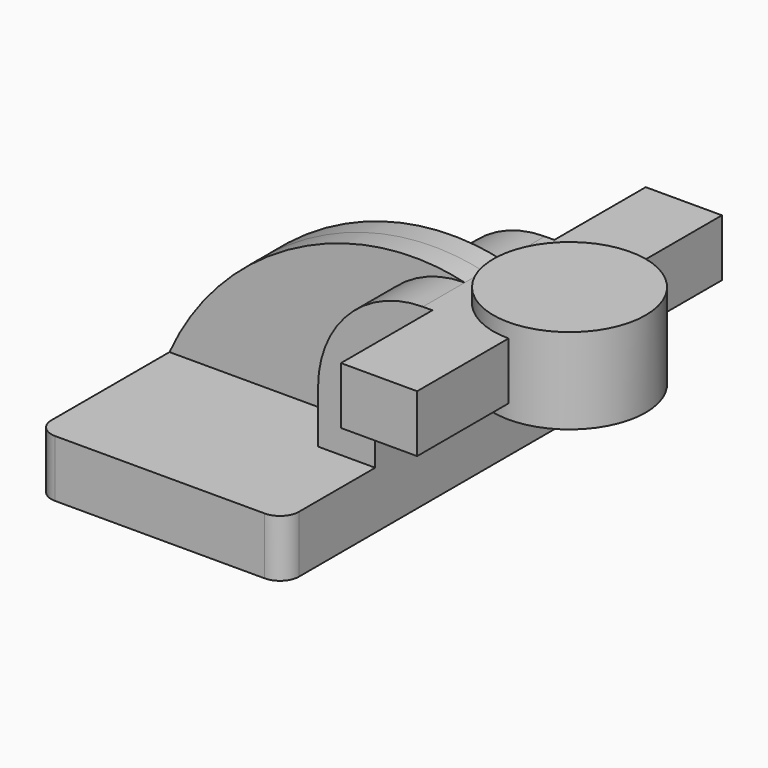
from build123d import *

# Parameters (mm, degrees)
F1_DEPTH = 63.5
F2_DEPTH = 25.4
F3_DEPTH = 7.9375
F0_W     = 25.4
F0_H     = 19.05
F4_DEPTH = 63.5
F6_R     = 6.35


with BuildPart() as f1:
    # F0 (on Front) → F1 (new body, symmetric)
    with BuildSketch(Plane.XZ):
        Polygon((-41.275, 9.525), (-41.275, -9.525), (41.275, -9.525), (41.275, 9.525), (22.225, 9.525), align=None)
    extrude(amount=F1_DEPTH, both=True)

    # F0 (on Front) → F2 (join, symmetric)
    with BuildSketch(Plane.XZ):
        with BuildLine():
            Line((22.225, 9.525), (41.275, 9.525))
            Line((41.275, 9.525), (41.275, 27.0002))
            ThreePointArc((41.275, 27.0002), (45.9246798487, 38.2255201513), (57.15, 42.8752))
            Line((57.15, 42.8752), (60.325, 42.8752))
            Line((60.325, 42.8752), (60.325, 61.9252))
            Line((60.325, 61.9252), (57.15, 61.9252))
            ThreePointArc((57.15, 61.9252), (32.4542956671, 51.6959043329), (22.225, 27.0002))
            Line((22.225, 27.0002), (22.225, 9.525))
        make_face()
    extrude(amount=F2_DEPTH, both=True)

    # F0 (on Front) → F3 (join, symmetric)
    with BuildSketch(Plane.XZ):
        with BuildLine():
            add(Edge.make_bspline(
                [(-41.275, 9.525), (-23.7557739019, 48.5848635435), (20.1313588768, 70.8134099841), (57.15, 61.9252)],
                knots=[0, 0, 0, 0, 111.5045361635, 111.5045361635, 111.5045361635, 111.5045361635], degree=3))
            Line((-41.275, 9.525), (22.225, 9.525))
            Line((22.225, 9.525), (22.225, 27.0002))
            ThreePointArc((22.225, 27.0002), (32.4542956671, 51.6959043329), (57.15, 61.9252))
        make_face()
    extrude(amount=F3_DEPTH, both=True)

    # F0 (on Front) → F4 (join, symmetric)
    with BuildSketch(Plane.XZ):
        with Locations((73.025, 52.4002)):
            Rectangle(F0_W, F0_H)
    extrude(amount=F4_DEPTH, both=True)

    # F0 (on Front) → F5 (revolve)
    with BuildSketch(Plane.XZ):
        Polygon((85.725, 66.675), (85.725, 61.9252), (85.725, 42.8752), (85.725, 38.1), (111.125, 38.1), (111.125, 66.675), align=None)
    revolve(axis=Axis((85.725, 0, 52.3875), (0, 0, 1)))

    # F6
    f6_edges = [f1.edges().sort_by_distance(p)[0] for p in [
        (-41.275, -63.5, 0),
        (41.275, -63.5, 0),
        (41.275, 63.5, 0),
        (-41.275, 63.5, 0),
    ]]
    fillet(f6_edges, radius=F6_R)


solid = f1.part
